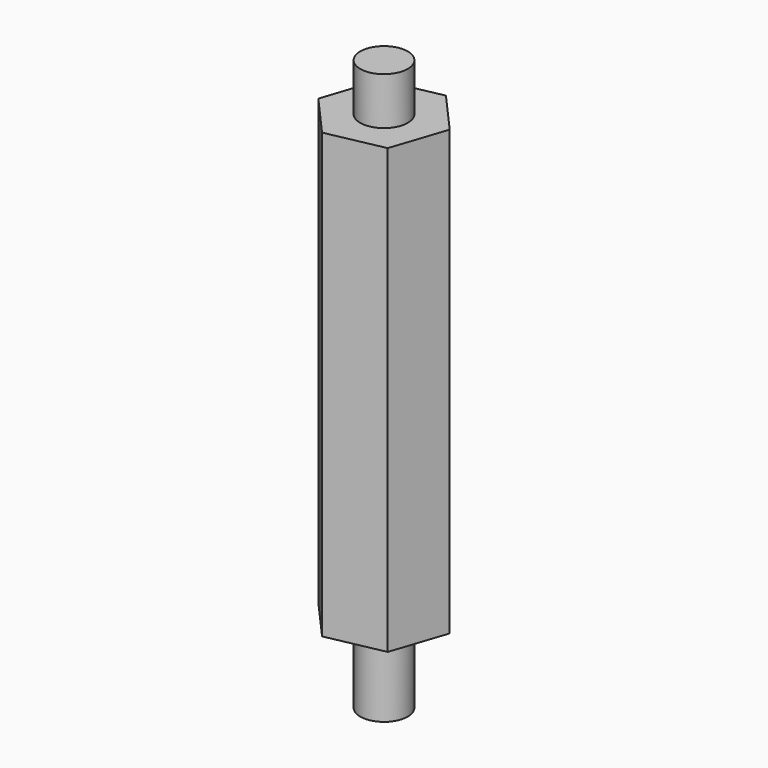
from build123d import *

# Parameters (mm, degrees)
F0_R     = 1.5
F1_DEPTH = 28
F2_DEPTH = 5
F3_R     = 1.5
F4_DEPTH = 3


with BuildPart() as f1:
    # F0 (on Top) → F1 (new body)
    with BuildSketch(Plane.XY):
        Polygon((2.413244, -2.721443), (3.563461, 0.729209), (1.150217, 3.450652), (-2.413244, 2.721443), (-3.563461, -0.729209), (-1.150217, -3.450652), align=None)
        Circle(F0_R, mode=Mode.SUBTRACT)
        Circle(F0_R)
    extrude(amount=F1_DEPTH)

    # F0 (on Top) → F2 (join)
    with BuildSketch(Plane.XY):
        Circle(F0_R)
    extrude(amount=-F2_DEPTH)

    # F3 (on face) → F4 (join)
    with BuildSketch(Plane.XY.offset(28)):
        Circle(F3_R)
    extrude(amount=F4_DEPTH)


solid = f1.part
